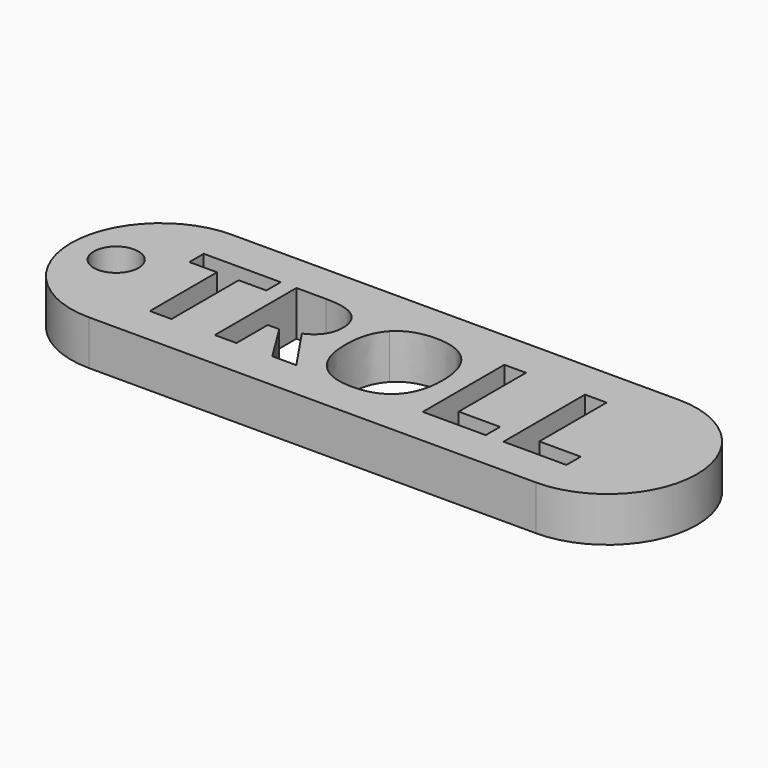
from build123d import *

# Parameters (mm, degrees)
F0_R     = 1.5
F1_DEPTH = 3


with BuildPart() as f1:
    # F0 (on Top) → F1 (new body)
    with BuildSketch(Plane.XY):
        with BuildLine():
            Line((-15, -6), (-15, 6))
            ThreePointArc((-15, 6), (-21, 0), (-15, -6))
        make_face()
        with Locations((-17.9709047079, 0)):
            Circle(F0_R, mode=Mode.SUBTRACT)
        with BuildLine():
            ThreePointArc((15, -6), (21, 0), (15, 6))
            Line((15, 6), (15, -2.2517217287))
            Line((15, -2.2517217287), (15, -3.4494460525))
            Line((15, -3.4494460525), (15, -6))
        make_face()
        Polygon((15, 6), (-15, 6), (-15, -6), (15, -6), (15, -3.4494460525), (10.7750274478, -3.4494460525), (10.7750274478, 3.3910569917), (12.225771035, 3.3910569917), (12.225771035, -2.2517217287), (15, -2.2517217287), align=None)
        Polygon((-11.4996506637, 2.1843497355), (-11.4996506637, -3.4494460525), (-12.9503942509, -3.4494460525), (-12.9503942509, 2.1843497355), (-14.8083641082, 2.1843497355), (-14.8083641082, 3.3910569917), (-9.6431779619, 3.3910569917), (-9.6431779619, 2.1843497355), align=None, mode=Mode.SUBTRACT)
        with BuildLine():
            Line((-6.3688990917, -0.824932628), (-7.1399341252, -0.824932628))
            Line((-7.1399341252, -0.824932628), (-7.1399341252, -3.4494460525))
            Line((-7.1399341252, -3.4494460525), (-8.5906777123, -3.4494460525))
            Line((-8.5906777123, -3.4494460525), (-8.5906777123, 3.3910569917))
            Line((-8.5906777123, 3.3910569917), (-6.5979638686, 3.3910569917))
            add(Edge.make_bspline(
                [(-6.5979638686, 3.3910569917), (-5.2026150314, 3.3910569917), (-4.5341351432, 2.8835213095)],
                knots=[0, 0, 0, 1, 1, 1], degree=2))
            add(Edge.make_bspline(
                [(-4.5341351432, 2.8835213095), (-3.865655255, 2.3759856273), (-3.865655255, 1.3414512426)],
                knots=[0, 0, 0, 1, 1, 1], degree=2))
            add(Edge.make_bspline(
                [(-3.865655255, 1.3414512426), (-3.865655255, 0.7380976145), (-4.1972751772, 0.2679908174)],
                knots=[0, 0, 0, 1, 1, 1], degree=2))
            add(Edge.make_bspline(
                [(-4.1972751772, 0.2679908174), (-4.5288950993, -0.2021159796), (-5.138237349, -0.4686096417)],
                knots=[0, 0, 0, 1, 1, 1], degree=2))
            add(Edge.make_bspline(
                [(-5.138237349, -0.4686096417), (-3.5931729714, -2.7757261204), (-3.1260604851, -3.4494460525)],
                knots=[0, 0, 0, 1, 1, 1], degree=2))
            Line((-3.1260604851, -3.4494460525), (-4.7355025452, -3.4494460525))
            Line((-4.7355025452, -3.4494460525), (-6.3688990917, -0.824932628))
        make_face(mode=Mode.SUBTRACT)
        with BuildLine():
            add(Edge.make_bspline(
                [(3.1080946202, 2.5908274279), (3.9435073361, 1.6828026749), (3.9435073361, -0.0194630203)],
                knots=[0, 0, 0, 1, 1, 1], degree=2))
            add(Edge.make_bspline(
                [(3.9435073361, -0.0194630203), (3.9435073361, -1.7187344046), (3.1013574209, -2.6312506238)],
                knots=[0, 0, 0, 1, 1, 1], degree=2))
            add(Edge.make_bspline(
                [(3.1013574209, -2.6312506238), (2.2592075057, -3.543766843), (0.6871943308, -3.543766843)],
                knots=[0, 0, 0, 1, 1, 1], degree=2))
            add(Edge.make_bspline(
                [(0.6871943308, -3.543766843), (-0.8848188442, -3.543766843), (-1.7269687594, -2.6312506238)],
                knots=[0, 0, 0, 1, 1, 1], degree=2))
            add(Edge.make_bspline(
                [(-1.7269687594, -2.6312506238), (-2.5691186745, -1.7187344046), (-2.5691186745, -0.0104800878)],
                knots=[0, 0, 0, 1, 1, 1], degree=2))
            add(Edge.make_bspline(
                [(-2.5691186745, -0.0104800878), (-2.5691186745, 1.697774229), (-1.7247230263, 2.5983132049)],
                knots=[0, 0, 0, 1, 1, 1], degree=2))
            add(Edge.make_bspline(
                [(-1.7247230263, 2.5983132049), (-0.880327378, 3.4988521809), (0.6961772632, 3.4988521809)],
                knots=[0, 0, 0, 1, 1, 1], degree=2))
            add(Edge.make_bspline(
                [(0.6961772632, 3.4988521809), (2.2726819044, 3.4988521809), (3.1080946202, 2.5908274279)],
                knots=[0, 0, 0, 1, 1, 1], degree=2))
        make_face(mode=Mode.SUBTRACT)
        Polygon((9.5862860565, -3.4494460525), (5.3613135043, -3.4494460525), (5.3613135043, 3.3910569917), (6.8120570915, 3.3910569917), (6.8120570915, -2.2517217287), (9.5862860565, -2.2517217287), align=None, mode=Mode.SUBTRACT)
    extrude(amount=F1_DEPTH)


solid = f1.part
